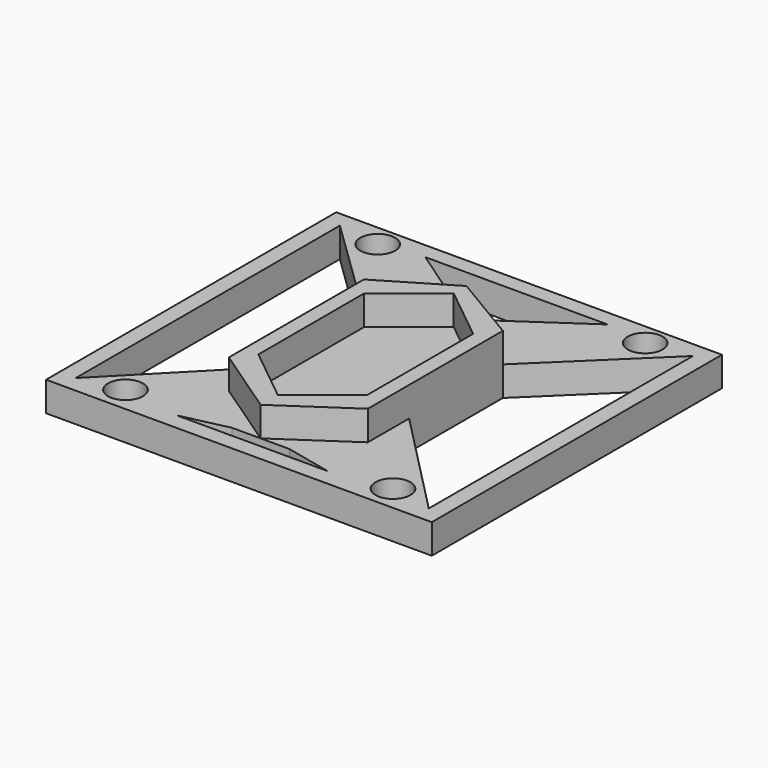
from build123d import *

# Parameters (mm, degrees)
F0_R     = 4.5
F1_DEPTH = 7.62
F3_DEPTH = 7.62


with BuildPart() as f1:
    # F0 (on Top) → F1 (new body)
    with BuildSketch(Plane.XY):
        Polygon((-46.3863605133, -12.5119441933), (30.6131504527, -12.5119441933), (41.8083587594, -12.5119441933), (41.8083587594, 80.9429615394), (21.555083004, 80.9429615394), (-37.3282930646, 80.9429615394), (-57.58156882, 80.9429615394), (-57.58156882, -12.5119441933), align=None)
        with Locations((-42.3521250486, -5.9729921632)):
            Circle(F0_R, mode=Mode.SUBTRACT)
        Polygon((-27.3236659841, -8.2207562408), (-15.2949382399, -5.5129789378), (-0.4782718207, -5.5129789378), (11.5504559235, -8.2207562408), align=None, mode=Mode.SUBTRACT)
        with Locations((26.578914988, -5.9729921632)):
            Circle(F0_R, mode=Mode.SUBTRACT)
        Polygon((-25.793466622, 41.4102652967), (-25.793466622, 19.9220313867), (-53.3758333607, -8.2207562408), (-53.3758333607, 76.8635385285), (-25.793466622, 50.1095634738), align=None, mode=Mode.SUBTRACT)
        with Locations((-42.3521250486, 75.2675160766)):
            Circle(F0_R, mode=Mode.SUBTRACT)
        Polygon((-31.369628484, 76.8635385285), (15.5964184234, 76.8635385285), (-7.8866050303, 60.7865828711), align=None, mode=Mode.SUBTRACT)
        Polygon((37.6026233001, -8.2207562408), (10.0202565614, 19.9220313867), (10.0202565614, 41.4102652967), (10.0202565614, 50.1095634738), (37.6026233001, 76.8635385285), align=None, mode=Mode.SUBTRACT)
        with Locations((26.578914988, 75.2675160766)):
            Circle(F0_R, mode=Mode.SUBTRACT)
        Polygon((-46.3863605133, -12.5119441933), (30.6131504527, -12.5119441933), (41.8083587594, -12.5119441933), (41.8083587594, 80.9429615394), (21.555083004, 80.9429615394), (-37.3282930646, 80.9429615394), (-57.58156882, 80.9429615394), (-57.58156882, -12.5119441933), align=None)
        with Locations((-42.3521250486, -5.9729921632)):
            Circle(F0_R, mode=Mode.SUBTRACT)
        Polygon((-27.3236659841, -8.2207562408), (-15.2949382399, -5.5129789378), (-0.4782718207, -5.5129789378), (11.5504559235, -8.2207562408), align=None, mode=Mode.SUBTRACT)
        with Locations((26.578914988, -5.9729921632)):
            Circle(F0_R, mode=Mode.SUBTRACT)
        Polygon((-25.793466622, 41.4102652967), (-25.793466622, 19.9220313867), (-53.3758333607, -8.2207562408), (-53.3758333607, 76.8635385285), (-25.793466622, 50.1095634738), align=None, mode=Mode.SUBTRACT)
        with Locations((-42.3521250486, 75.2675160766)):
            Circle(F0_R, mode=Mode.SUBTRACT)
        Polygon((-31.369628484, 76.8635385285), (15.5964184234, 76.8635385285), (-7.8866050303, 60.7865828711), align=None, mode=Mode.SUBTRACT)
        Polygon((37.6026233001, -8.2207562408), (10.0202565614, 19.9220313867), (10.0202565614, 41.4102652967), (10.0202565614, 50.1095634738), (37.6026233001, 76.8635385285), align=None, mode=Mode.SUBTRACT)
        with Locations((26.578914988, 75.2675160766)):
            Circle(F0_R, mode=Mode.SUBTRACT)
        Polygon((-46.3863605133, -12.5119441933), (30.6131504527, -12.5119441933), (41.8083587594, -12.5119441933), (41.8083587594, 80.9429615394), (21.555083004, 80.9429615394), (-37.3282930646, 80.9429615394), (-57.58156882, 80.9429615394), (-57.58156882, -12.5119441933), align=None)
        with Locations((-42.3521250486, -5.9729921632)):
            Circle(F0_R, mode=Mode.SUBTRACT)
        Polygon((-27.3236659841, -8.2207562408), (-15.2949382399, -5.5129789378), (-0.4782718207, -5.5129789378), (11.5504559235, -8.2207562408), align=None, mode=Mode.SUBTRACT)
        with Locations((26.578914988, -5.9729921632)):
            Circle(F0_R, mode=Mode.SUBTRACT)
        Polygon((-25.793466622, 41.4102652967), (-25.793466622, 19.9220313867), (-53.3758333607, -8.2207562408), (-53.3758333607, 76.8635385285), (-25.793466622, 50.1095634738), align=None, mode=Mode.SUBTRACT)
        with Locations((-42.3521250486, 75.2675160766)):
            Circle(F0_R, mode=Mode.SUBTRACT)
        Polygon((-31.369628484, 76.8635385285), (15.5964184234, 76.8635385285), (-7.8866050303, 60.7865828711), align=None, mode=Mode.SUBTRACT)
        Polygon((37.6026233001, -8.2207562408), (10.0202565614, 19.9220313867), (10.0202565614, 41.4102652967), (10.0202565614, 50.1095634738), (37.6026233001, 76.8635385285), align=None, mode=Mode.SUBTRACT)
        with Locations((26.578914988, 75.2675160766)):
            Circle(F0_R, mode=Mode.SUBTRACT)
        Polygon((-46.3863605133, -12.5119441933), (30.6131504527, -12.5119441933), (41.8083587594, -12.5119441933), (41.8083587594, 80.9429615394), (21.555083004, 80.9429615394), (-37.3282930646, 80.9429615394), (-57.58156882, 80.9429615394), (-57.58156882, -12.5119441933), align=None)
        with Locations((-42.3521250486, -5.9729921632)):
            Circle(F0_R, mode=Mode.SUBTRACT)
        Polygon((-27.3236659841, -8.2207562408), (-15.2949382399, -5.5129789378), (-0.4782718207, -5.5129789378), (11.5504559235, -8.2207562408), align=None, mode=Mode.SUBTRACT)
        with Locations((26.578914988, -5.9729921632)):
            Circle(F0_R, mode=Mode.SUBTRACT)
        Polygon((-25.793466622, 41.4102652967), (-25.793466622, 19.9220313867), (-53.3758333607, -8.2207562408), (-53.3758333607, 76.8635385285), (-25.793466622, 50.1095634738), align=None, mode=Mode.SUBTRACT)
        with Locations((-42.3521250486, 75.2675160766)):
            Circle(F0_R, mode=Mode.SUBTRACT)
        Polygon((-31.369628484, 76.8635385285), (15.5964184234, 76.8635385285), (-7.8866050303, 60.7865828711), align=None, mode=Mode.SUBTRACT)
        Polygon((37.6026233001, -8.2207562408), (10.0202565614, 19.9220313867), (10.0202565614, 41.4102652967), (10.0202565614, 50.1095634738), (37.6026233001, 76.8635385285), align=None, mode=Mode.SUBTRACT)
        with Locations((26.578914988, 75.2675160766)):
            Circle(F0_R, mode=Mode.SUBTRACT)
        Polygon((-46.3863605133, -12.5119441933), (30.6131504527, -12.5119441933), (41.8083587594, -12.5119441933), (41.8083587594, 80.9429615394), (21.555083004, 80.9429615394), (-37.3282930646, 80.9429615394), (-57.58156882, 80.9429615394), (-57.58156882, -12.5119441933), align=None)
        with Locations((-42.3521250486, -5.9729921632)):
            Circle(F0_R, mode=Mode.SUBTRACT)
        Polygon((-27.3236659841, -8.2207562408), (-15.2949382399, -5.5129789378), (-0.4782718207, -5.5129789378), (11.5504559235, -8.2207562408), align=None, mode=Mode.SUBTRACT)
        with Locations((26.578914988, -5.9729921632)):
            Circle(F0_R, mode=Mode.SUBTRACT)
        Polygon((-25.793466622, 41.4102652967), (-25.793466622, 19.9220313867), (-53.3758333607, -8.2207562408), (-53.3758333607, 76.8635385285), (-25.793466622, 50.1095634738), align=None, mode=Mode.SUBTRACT)
        with Locations((-42.3521250486, 75.2675160766)):
            Circle(F0_R, mode=Mode.SUBTRACT)
        Polygon((-31.369628484, 76.8635385285), (15.5964184234, 76.8635385285), (-7.8866050303, 60.7865828711), align=None, mode=Mode.SUBTRACT)
        Polygon((37.6026233001, -8.2207562408), (10.0202565614, 19.9220313867), (10.0202565614, 41.4102652967), (10.0202565614, 50.1095634738), (37.6026233001, 76.8635385285), align=None, mode=Mode.SUBTRACT)
        with Locations((26.578914988, 75.2675160766)):
            Circle(F0_R, mode=Mode.SUBTRACT)
    extrude(amount=F1_DEPTH)

    # F2 (on face) → F3 (join)
    with BuildSketch(Plane.XY.offset(7.62)):
        Polygon((-7.8866050303, 60.7865828711), (-25.793466622, 50.1095634738), (-25.793466622, 19.9220313867), (-25.793466622, 6.6224359907), (-7.8866050303, -5.5129789378), (10.0202565614, 6.6224359907), (10.0202565614, 19.9220313867), (10.0202565614, 50.1095634738), align=None)
        Polygon((-21.9546725898, 45.3533753753), (-7.8866050303, 56.6663203104), (6.1814625292, 45.3533753753), (6.1814625292, 11.3457208499), (-7.8866050303, 0), (-21.9546725898, 11.3457208499), align=None, mode=Mode.SUBTRACT)
    extrude(amount=F3_DEPTH)


solid = f1.part
